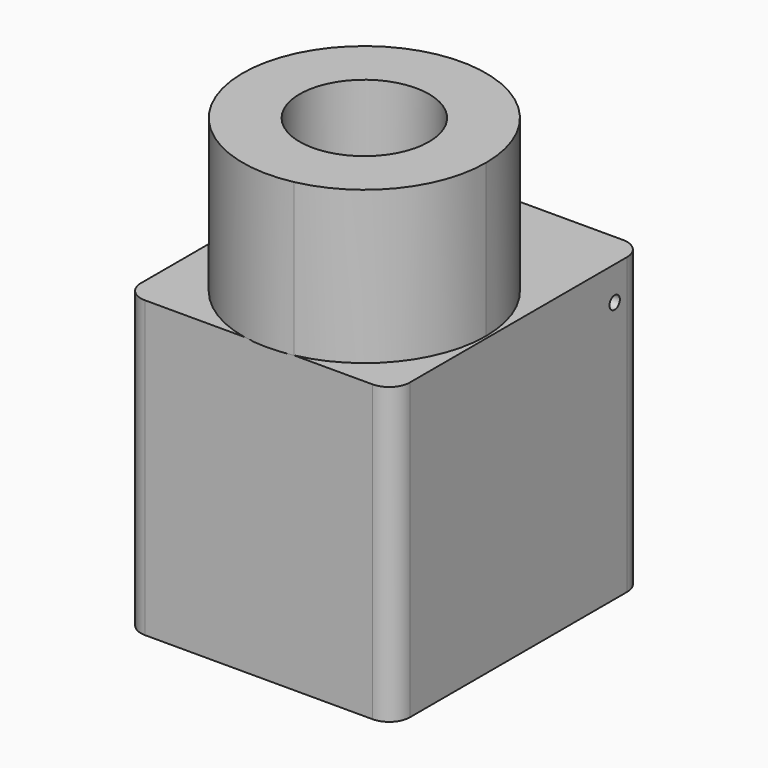
from build123d import *

# Parameters (mm, degrees)
F0_R      = 11.938
F1_DEPTH  = 14.986
F2_R      = 5.2835878492
F3_DEPTH  = 6.35
F4_W      = 26.416
F4_H      = 30.734
F5_DEPTH  = 28.956
F6_R      = 0.635
F7_DEPTH  = 6.35
F8_R      = 0.635
F9_DEPTH  = 6.35
F10_R     = 6.35
F11_DEPTH = 14.986
F13_R     = 2.032
F14_W     = 0.381
F14_H     = 1.27
F15_DEPTH = 0.254


with BuildPart() as f1:
    # F0 (on Top) → F1 (new body)
    with BuildSketch(Plane.XY):
        Circle(F0_R)
    extrude(amount=F1_DEPTH)

    # F2 (on face) → F3 (cut)
    with BuildSketch(Plane.XY.offset(14.986)):
        Circle(F2_R)
    extrude(amount=-F3_DEPTH, mode=Mode.SUBTRACT)


with BuildPart() as f5:
    # F4 (on Top) → F5 (new body)
    with BuildSketch(Plane.XY):
        with Locations((54.4431246817, 16.2993484654)):
            Rectangle(F4_W, F4_H)
    extrude(amount=F5_DEPTH)

    # F6 (on face) → F7 (cut)
    with BuildSketch(Plane(origin=(41.2351246817, 0, 0), x_dir=(0, -1, 0), z_dir=(-1, 0, 0))):
        with Locations((-7.2823484654, 25.654)):
            Circle(F6_R)
    extrude(amount=-F7_DEPTH, mode=Mode.SUBTRACT)

    # F8 (on face) → F9 (cut)
    with BuildSketch(Plane.YZ.offset(67.6511246817)):
        with Locations((28.1103484654, 25.654)):
            Circle(F8_R)
    extrude(amount=-F9_DEPTH, mode=Mode.SUBTRACT)

    # F10 (on face) → F11 (join)
    with BuildSketch(Plane.XY.offset(28.956)):
        with BuildLine():
            ThreePointArc((57.908611975, 0.9323484654), (64.7262122314, 5.0905971842), (67.3971246817, 12.6163484654))
            ThreePointArc((67.3971246817, 12.6163484654), (47.9333734005, 21.8834360151), (53.0096373884, 0.9323484654))
            Line((53.0096373884, 0.9323484654), (57.908611975, 0.9323484654))
        make_face()
        with Locations((55.4591246817, 12.6163484654)):
            Circle(F10_R, mode=Mode.SUBTRACT)
        with BuildLine():
            Line((57.908611975, 0.9323484654), (53.0096373884, 0.9323484654))
            ThreePointArc((53.0096373884, 0.9323484654), (55.4591246817, 0.6783484654), (57.908611975, 0.9323484654))
        make_face()
    extrude(amount=F11_DEPTH)

    # F13
    f13_edges = [f5.edges().sort_by_distance(p)[0] for p in [
        (41.235125, 31.666348, 14.478),
        (67.651125, 31.666348, 14.478),
        (41.235125, 0.932348, 14.478),
        (67.651125, 0.932348, 14.478),
    ]]
    fillet(f13_edges, radius=F13_R)

    # F14 (on face) → F15 (cut)
    with BuildSketch(Plane(origin=(41.2351246817, 0, 0), x_dir=(0, -1, 0), z_dir=(-1, 0, 0))):
        Polygon((-17.3889424292, 3.302), (-17.3889424292, 2.032), (-9.7689424292, 2.032), (-9.7689424292, 3.302), (-9.7689424292, 4.572), (-9.7689424292, 7.112), (-17.3889424292, 7.112), (-17.3889424292, 4.572), align=None)
        with Locations((-17.5794424292, 2.667)):
            Rectangle(F14_W, F14_H)
        Polygon((-17.7699424292, 3.302), (-17.3889424292, 3.302), (-17.3889424292, 4.572), align=None)
        Polygon((-9.7689424292, 4.572), (-9.7689424292, 3.302), (-9.3879424292, 3.302), align=None)
        with Locations((-9.5784424292, 2.667)):
            Rectangle(F14_W, F14_H)
    extrude(amount=-F15_DEPTH, mode=Mode.SUBTRACT)


solid = f5.part
